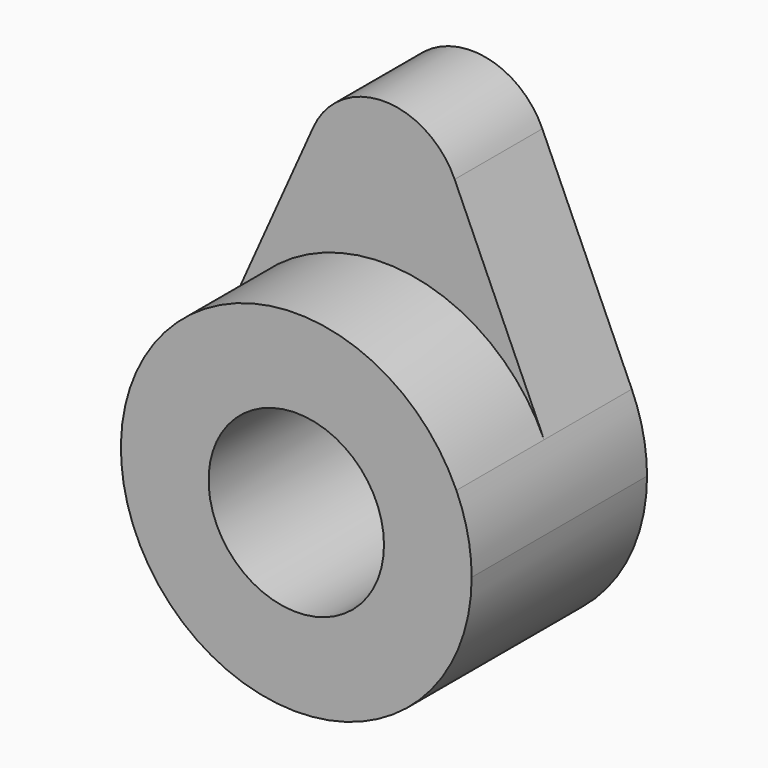
from build123d import *

# Parameters (mm, degrees)
F0_R     = 20
F1_DEPTH = 50
F2_DEPTH = 25


with BuildPart() as f1:
    # F0 (on Front) → F1 (new body)
    with BuildSketch(Plane.XZ):
        with BuildLine():
            ThreePointArc((-36.518415, 16.321929), (-8.344561, -39.119922), (40, 0))
            ThreePointArc((40, 0), (39.119922, 8.344561), (36.518415, 16.321929))
            ThreePointArc((36.518415, 16.321929), (0, 40), (-36.518415, 16.321929))
        make_face()
        Circle(F0_R, mode=Mode.SUBTRACT)
    extrude(amount=F1_DEPTH)

    # F0 (on Front) → F2 (join)
    with BuildSketch(Plane.XZ):
        with BuildLine():
            ThreePointArc((-36.518415, 16.321929), (0, 40), (36.518415, 16.321929))
            Line((36.518415, 16.321929), (16.116004, 61.969948))
            ThreePointArc((16.116004, 61.969948), (0, 72.419358), (-16.116004, 61.969948))
            Line((-16.116004, 61.969948), (-36.518415, 16.321929))
        make_face()
    extrude(amount=F2_DEPTH)


solid = f1.part
